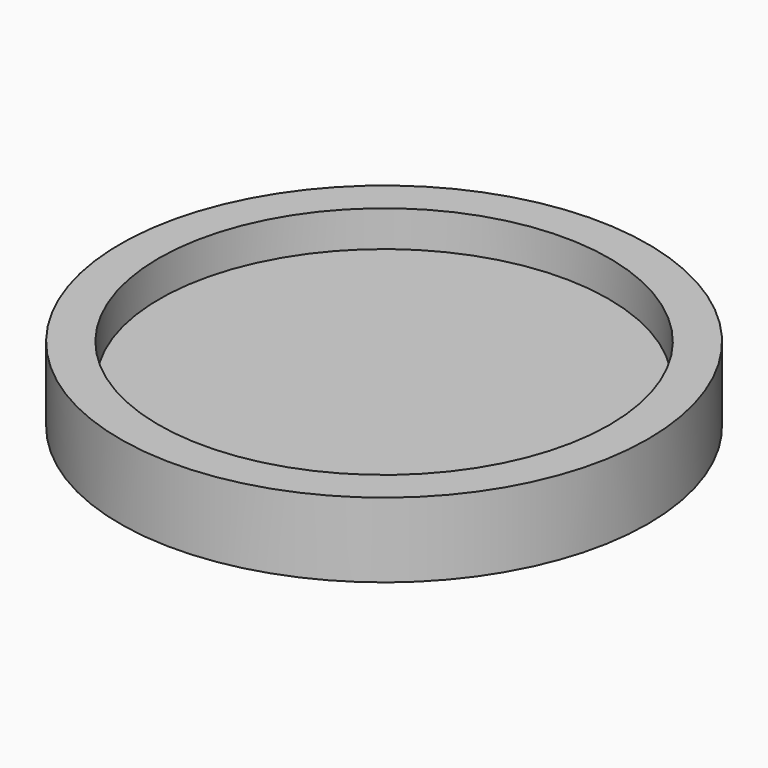
from build123d import *

# Parameters (mm, degrees)
F0_R     = 37.465
F0_R_2   = 32.004
F1_DEPTH = 10.5918
F2_R     = 31.869416
F3_DEPTH = 5.5626
F4_T     = -3.0988


with BuildPart() as f1:
    # F0 (on Top) → F1 (new body)
    with BuildSketch(Plane.XY):
        Circle(F0_R)
        Circle(F0_R_2, mode=Mode.SUBTRACT)
    extrude(amount=F1_DEPTH)


with BuildPart() as f3:
    # F2 (on Top) → F3 (new body)
    with BuildSketch(Plane.XY):
        Circle(F2_R)
    extrude(amount=F3_DEPTH)

    # F4
    f4_openings = [f3.faces().sort_by_distance(p)[0] for p in [
        (0, 0, 0),
    ]]
    offset(amount=F4_T, openings=f4_openings)


solid = Compound([f1.part, f3.part])
